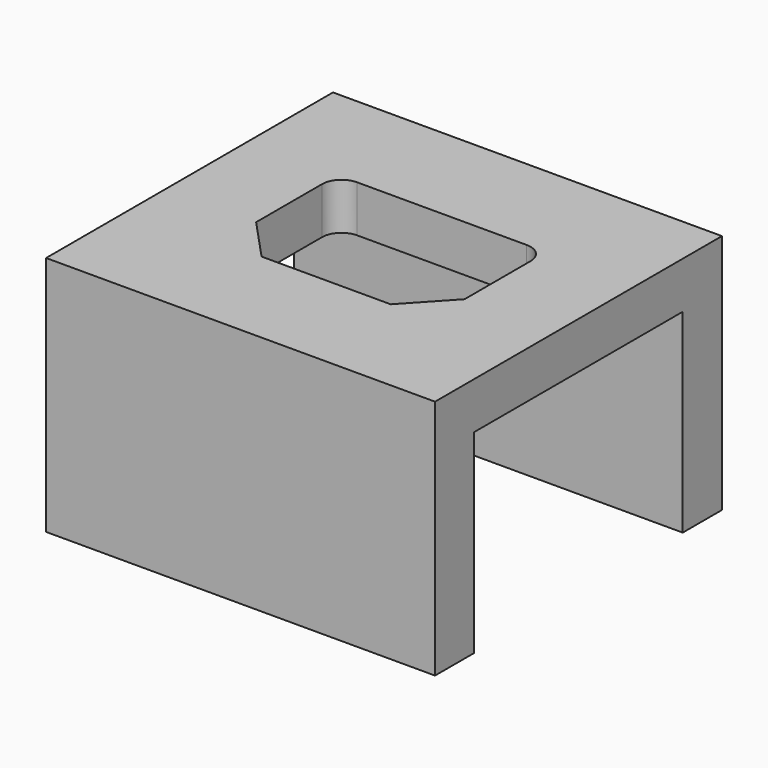
from build123d import *

# Parameters (mm, degrees)
F0_W     = 50
F0_H     = 46.1
F0_R     = 1.75
F1_DEPTH = 6
F2_W     = 50
F2_H     = 6.3
F3_DEPTH = 25


with BuildPart() as f1:
    # F0 (on Top) → F1 (new body)
    with BuildSketch(Plane.XY):
        Rectangle(F0_W, F0_H)
        with Locations((-19.95, 0)):
            Circle(F0_R, mode=Mode.SUBTRACT)
        with BuildLine():
            ThreePointArc((-13.4, 6.8), (-12.667767, 8.567767), (-10.9, 9.3))
            Line((-10.9, 9.3), (10.9, 9.3))
            ThreePointArc((10.9, 9.3), (12.667767, 8.567767), (13.4, 6.8))
            Line((13.4, 6.8), (13.4, -3.8))
            Line((13.4, -3.8), (8.30098, -9.3))
            Line((8.30098, -9.3), (-8.30098, -9.3))
            Line((-8.30098, -9.3), (-13.4, -3.8))
            Line((-13.4, -3.8), (-13.4, 6.8))
        make_face(mode=Mode.SUBTRACT)
        with Locations((19.95, 0)):
            Circle(F0_R, mode=Mode.SUBTRACT)
        with Locations((-19.95, 0)):
            Circle(F0_R)
        with Locations((19.95, 0)):
            Circle(F0_R)
    extrude(amount=F1_DEPTH)

    # F2 (on face) → F3 (join)
    with BuildSketch(Plane.XY):
        with Locations((0, 19.9)):
            Rectangle(F2_W, F2_H)
        with Locations((0, -19.9)):
            Rectangle(F2_W, F2_H)
    extrude(amount=-F3_DEPTH)


solid = f1.part
